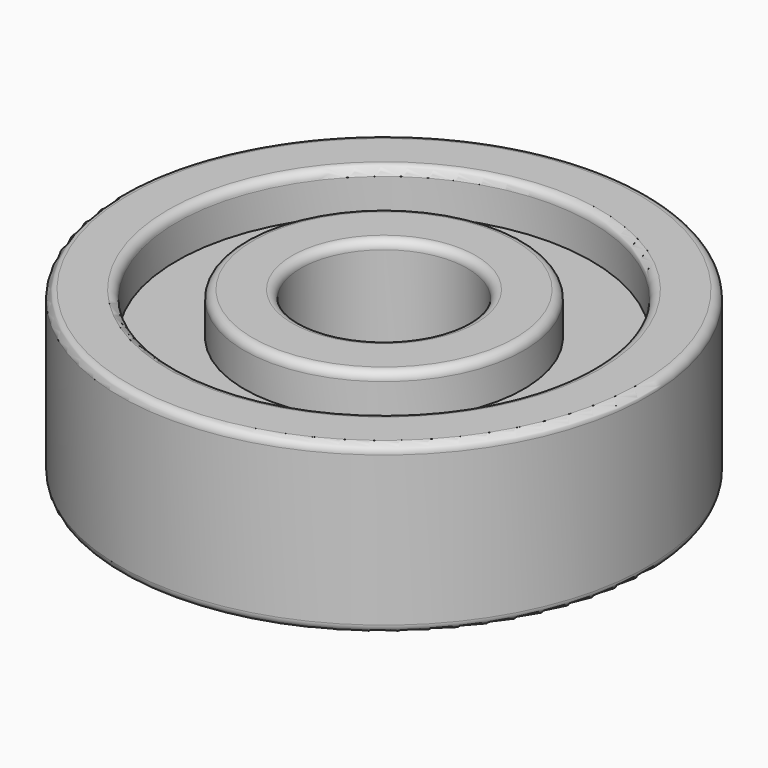
from build123d import *

# Parameters (mm, degrees)
F2_R = 0.3048


with BuildPart() as f1:
    # F0 (on Right) → F1 (revolve)
    with BuildSketch(Plane.YZ):
        Polygon((-5.03174, 0), (-2.99974, 0), (-2.99974, 5.99948), (-5.03174, 5.99948), (-5.03174, 4.47548), (-7.4676, 4.47548), (-7.4676, 5.99948), (-9.4996, 5.99948), (-9.4996, 0), (-7.4676, 0), (-7.4676, 1.524), (-5.03174, 1.524), align=None)
    revolve(axis=Axis((0, 0, 2.99974), (0, 0, 1)))

    # F2
    f2_edges = [f1.edges().sort_by_distance(p)[0] for p in [
        (0, 9.4996, 5.99948),
        (0, 7.4676, 5.99948),
        (0, 5.03174, 5.99948),
        (0, 2.99974, 5.99948),
        (0, 9.4996, 0),
        (0, 7.4676, 0),
        (0, 5.03174, 0),
        (0, 2.99974, 0),
    ]]
    fillet(f2_edges, radius=F2_R)


solid = f1.part
